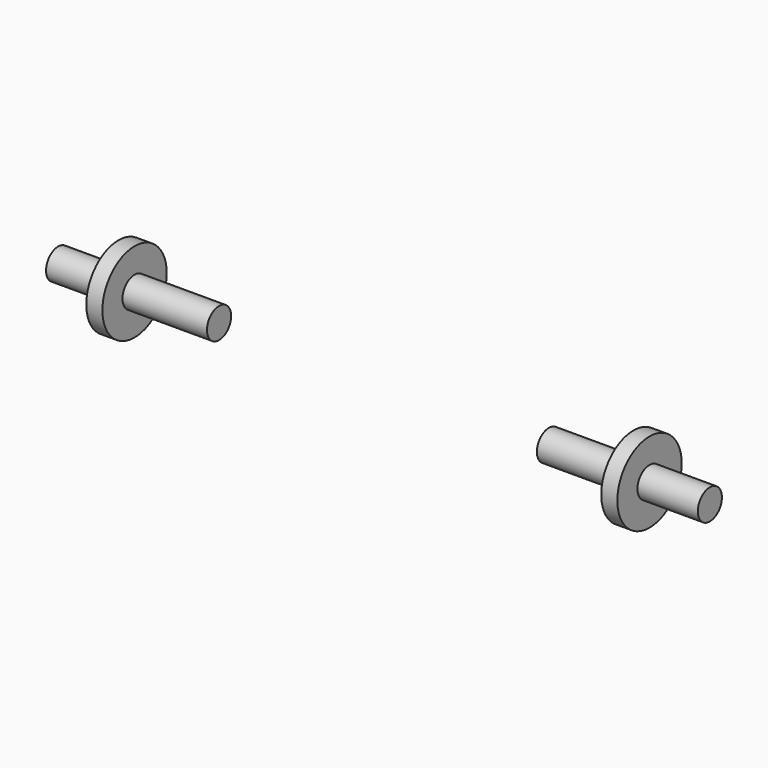
from build123d import *

# Parameters (mm, degrees)
F0_W   = 21
F0_H   = 3.75
F0_W_2 = 15


with BuildPart() as f1:
    # F0 (on Top) → F1 (revolve)
    with BuildSketch(Plane.XY):
        with Locations((51.5, 1.875)):
            Rectangle(F0_W, F0_H)
        with Locations((73.5, 1.875)):
            Rectangle(F0_W_2, F0_H)
        Polygon((62, 3.75), (62, 0), (66, 0), (66, 3.75), (66, 10), (62, 10), align=None)
    revolve(axis=Axis((51.5, 0, 0), (1, 0, 0)))


with BuildPart() as f2_1:
    # F2: instance of F1
    add(f1.part.mirror(Plane.YZ))


solid = Compound([f1.part, f2_1.part])
